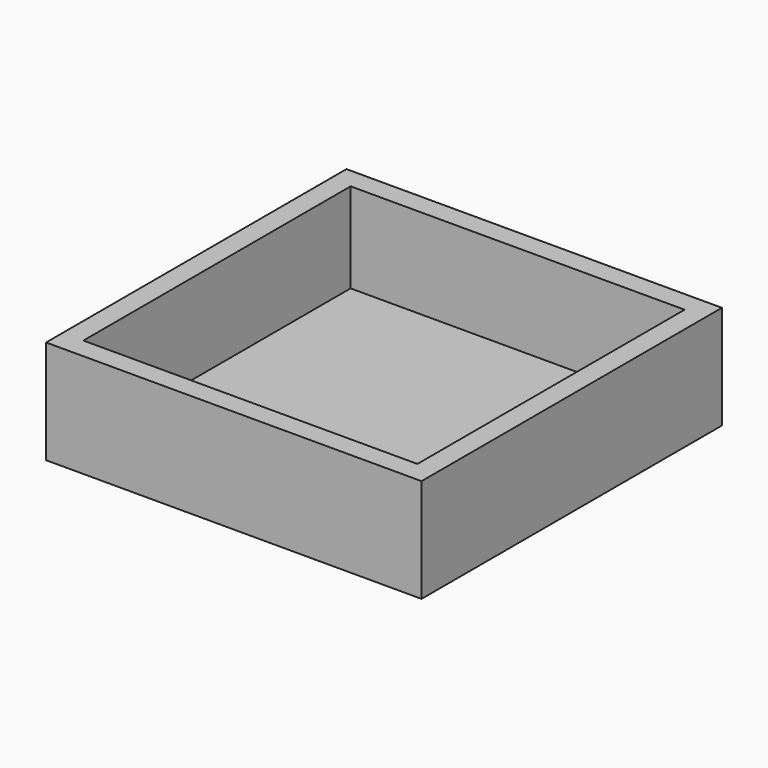
from build123d import *

# Parameters (mm, degrees)
F0_W     = 11
F0_H     = 1.8
F1_DEPTH = 1.2
F2_DEPTH = 9


with BuildPart() as f1:
    # F0 (on Top) → F1 (new body)
    with BuildSketch(Plane.XY):
        Polygon((5.5, 14.5), (14.5, 14.5), (14.5, -14.5), (-14.5, -14.5), (-14.5, 14.5), (-5.5, 14.5), (-5.5, 16.3), (-16.3, 16.3), (-16.3, -16.3), (16.3, -16.3), (16.3, 16.3), (5.5, 16.3), align=None)
        with Locations((0, 15.4)):
            Rectangle(F0_W, F0_H)
        Polygon((14.5, -14.5), (14.5, 14.5), (5.5, 14.5), (-5.5, 14.5), (-14.5, 14.5), (-14.5, -14.5), align=None)
    extrude(amount=F1_DEPTH)

    # F0 (on Top) → F2 (join)
    with BuildSketch(Plane.XY):
        Polygon((5.5, 14.5), (14.5, 14.5), (14.5, -14.5), (-14.5, -14.5), (-14.5, 14.5), (-5.5, 14.5), (-5.5, 16.3), (-16.3, 16.3), (-16.3, -16.3), (16.3, -16.3), (16.3, 16.3), (5.5, 16.3), align=None)
        with Locations((0, 15.4)):
            Rectangle(F0_W, F0_H)
    extrude(amount=F2_DEPTH)


solid = f1.part
